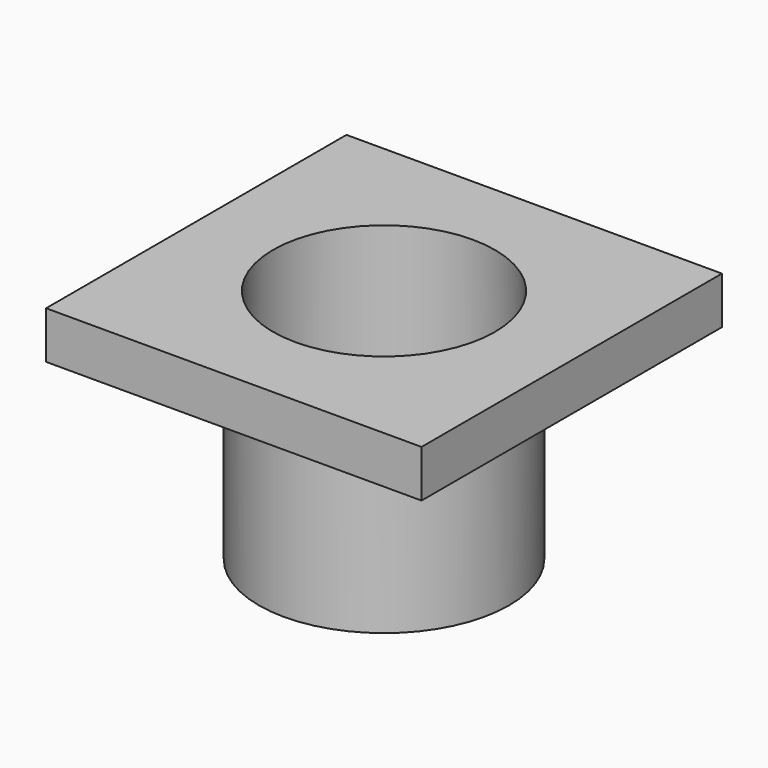
from build123d import *

# Parameters (mm, degrees)
CYLINDER010_R     = 4.7
CYLINDER010_DEPTH = 10
CYLINDER009_R     = 3.5
CYLINDER009_DEPTH = 10
BOX004_W          = 15.9
BOX004_H          = 15.9
BOX004_DEPTH      = 2
CYLINDER008_R     = 5.3
CYLINDER008_DEPTH = 10
CHAMFER_SIZE      = 1
CHAMFER001_SIZE   = 1


with BuildPart() as lochschraubeoben:
    # Cylinder010 → Cylinder010 (new body)
    with BuildSketch(Plane.XY.offset(24)):
        Circle(CYLINDER010_R)
    extrude(amount=CYLINDER010_DEPTH)


with BuildPart() as zylinder:
    # Cylinder009 → Cylinder009 (new body)
    with BuildSketch(Plane.XY.offset(20)):
        Circle(CYLINDER009_R)
    extrude(amount=CYLINDER009_DEPTH)


with BuildPart() as obj1:
    # Box004 → Box004 (new body)
    with BuildSketch(Plane(origin=(-7.95, -7.95, 28), x_dir=(1, 0, 0), z_dir=(0, 0, 1))):
        with Locations((7.95, 7.95)):
            Rectangle(BOX004_W, BOX004_H)
    extrude(amount=BOX004_DEPTH)


with BuildPart() as bolt:
    # Cylinder008 → Cylinder008 (new body)
    with BuildSketch(Plane.XY.offset(20)):
        Circle(CYLINDER008_R)
    extrude(amount=CYLINDER008_DEPTH)

    # Fusion004: union obj1
    add(obj1.part)

    # Cut003: cut Zylinder
    add(zylinder.part, mode=Mode.SUBTRACT)

    # Cut004: cut LochSchraubeOben
    add(lochschraubeoben.part, mode=Mode.SUBTRACT)

    # Chamfer
    chamfer_edges = [bolt.edges().sort_by_distance(p)[0] for p in [
        (-3.5, 0, 24),
    ]]
    chamfer(chamfer_edges, length=CHAMFER_SIZE)

    # Chamfer001
    chamfer001_edges = [bolt.edges().sort_by_distance(p)[0] for p in [
        (-3.5, 0, 20),
    ]]
    chamfer(chamfer001_edges, length=CHAMFER001_SIZE)


solid = bolt.part
